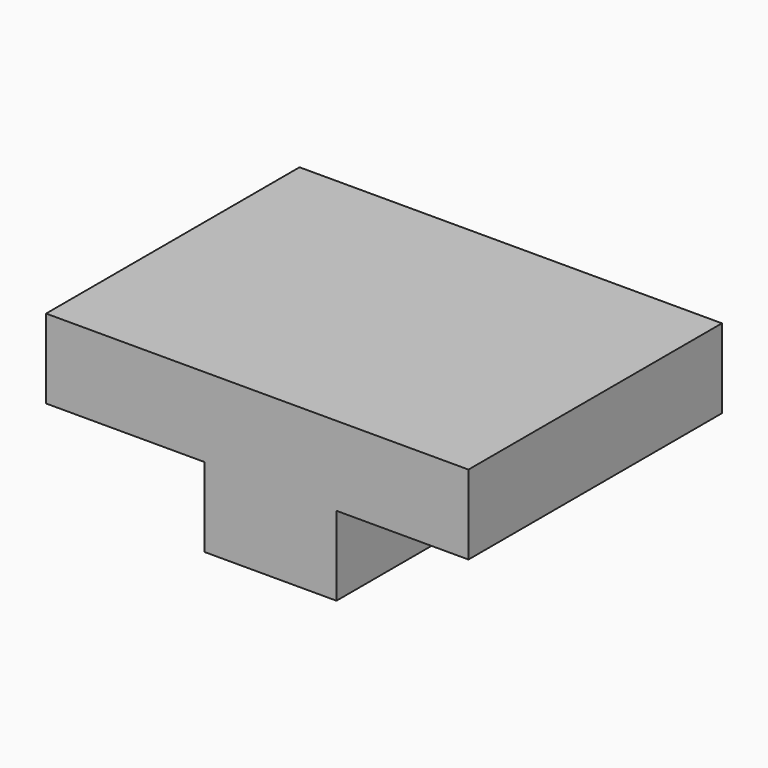
from build123d import *

# Parameters (mm, degrees)
F0_W     = 80
F0_H     = 30
F1_DEPTH = 60
F2_W     = 30
F2_H     = 15
F3_DEPTH = 30
F2_W_2   = 25
F4_DEPTH = 60.001


with BuildPart() as f1:
    # F0 (on Front) → F1 (new body)
    with BuildSketch(Plane.XZ):
        with Locations((-40, 15)):
            Rectangle(F0_W, F0_H)
    extrude(amount=F1_DEPTH)

    # F2 (on face) → F3 (cut)
    with BuildSketch(Plane.XZ.offset(60)):
        with Locations((-65, 7.5)):
            Rectangle(F2_W, F2_H)
    extrude(amount=-F3_DEPTH, mode=Mode.SUBTRACT)

    # F2 (on face) → F4 (cut, through all)
    with BuildSketch(Plane.XZ.offset(60)):
        with Locations((-12.5, 7.5)):
            Rectangle(F2_W_2, F2_H)
    extrude(amount=-F4_DEPTH, mode=Mode.SUBTRACT)


solid = f1.part
